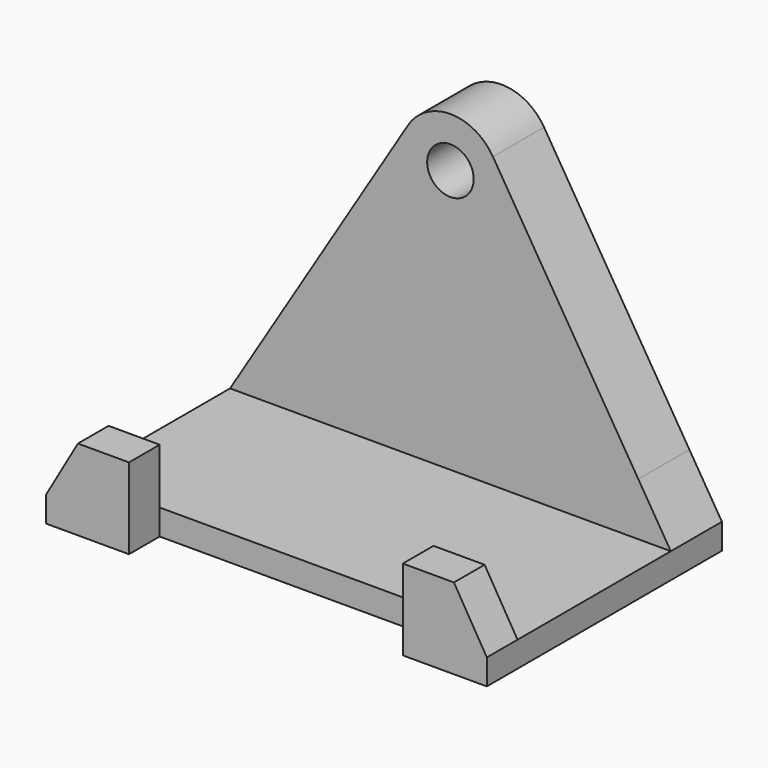
from build123d import *

# Parameters (mm, degrees)
F0_R     = 9.0940365485
F1_DEPTH = 25
F0_W     = 105.1995866001
F0_H     = 10
F0_W_2   = 33.5022409036
F0_W_3   = 33.7981618941
F2_DEPTH = 100
F4_DEPTH = 15


with BuildPart() as f1:
    # F0 (on Front) → F1 (new body)
    with BuildSketch(Plane.XZ):
        with BuildLine():
            Line((-138.9977484941, 0), (-33.7981618941, 0))
            Line((-33.7981618941, 0), (-33.7981618941, 20.7065277838))
            Line((-33.7981618941, 20.7065277838), (-12.7240127639, 20.7065277838))
            Line((-12.7240127639, 20.7065277838), (-69.619662283, 113.2961352765))
            ThreePointArc((-69.619662283, 113.2961352765), (-86.2499946989, 122.5961471904), (-102.8803271148, 113.2961352765))
            Line((-102.8803271148, 113.2961352765), (-159.7759766339, 20.7065277838))
            Line((-159.7759766339, 20.7065277838), (-138.9977484941, 20.7065277838))
            Line((-138.9977484941, 20.7065277838), (-138.9977484941, 0))
        make_face()
        with Locations((-86.2499946989, 103.0769153215)):
            Circle(F0_R, mode=Mode.SUBTRACT)
        Polygon((-172.4999893978, 0), (-138.9977484941, 0), (-138.9977484941, 20.7065277838), (-159.7759766339, 20.7065277838), align=None)
        Polygon((-33.7981618941, 0), (0, 0), (-12.7240127639, 20.7065277838), (-33.7981618941, 20.7065277838), align=None)
    extrude(amount=F1_DEPTH)

    # F0 (on Front) → F2 (join)
    with BuildSketch(Plane.XZ):
        with Locations((-86.3979551941, -5)):
            Rectangle(F0_W, F0_H)
        with Locations((-155.748868946, -5)):
            Rectangle(F0_W_2, F0_H)
        with Locations((-16.899080947, -5)):
            Rectangle(F0_W_3, F0_H)
    extrude(amount=F2_DEPTH)

    # F3 (on face) → F4 (join)
    with BuildSketch(Plane.XZ.offset(100)):
        Polygon((-140.0482910872, 21.6435156763), (-160.0482910872, 21.6435156763), (-172.4999893978, 0), (-172.4999893978, -10), (-140.0482910872, -10), align=None)
        Polygon((0, -10), (0, 0), (-12.8745967522, 21.6435156763), (-32.8745967522, 21.6435156763), (-32.8745967522, -10), align=None)
    extrude(amount=F4_DEPTH)


solid = f1.part
